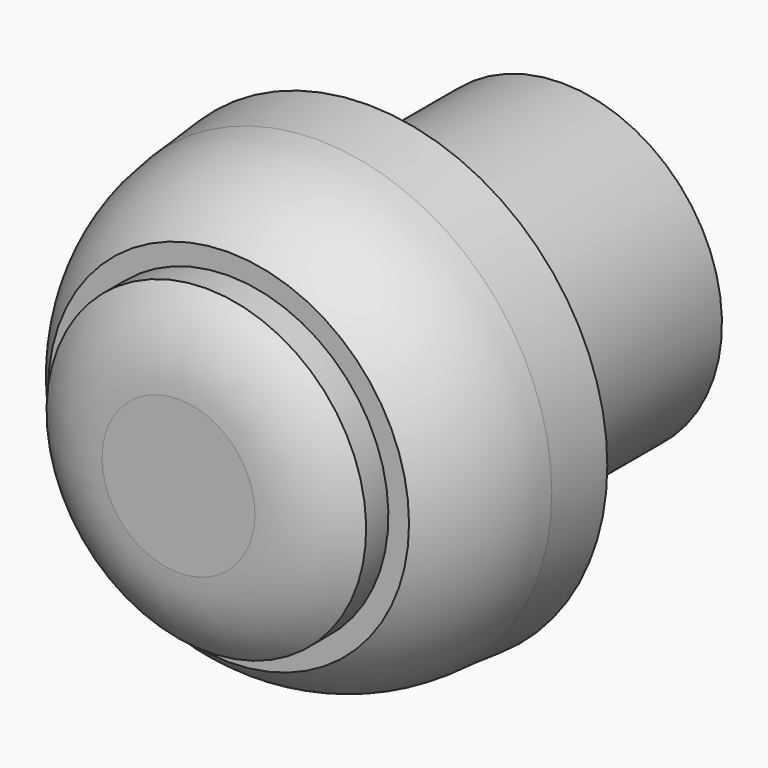
from build123d import *


with BuildPart() as f1:
    # F0 (on Right) → F1 (revolve)
    with BuildSketch(Plane.YZ):
        with BuildLine():
            Line((-8.636, 0), (8.89, 0))
            Line((8.89, 0), (8.89, 5.842))
            Line((8.89, 5.842), (0, 5.842))
            Line((0, 5.842), (0, 8.763))
            Line((0, 8.763), (-2.286, 8.563001))
            ThreePointArc((-2.286, 8.563001), (-4.498697, 7.953019), (-6.35, 6.596265))
            Line((-6.35, 6.596265), (-6.35, 5.842))
            Line((-6.35, 5.842), (-7.366, 5.842))
            ThreePointArc((-7.366, 5.842), (-8.3058, 4.445), (-8.636, 2.794))
            Line((-8.636, 2.794), (-8.636, 0))
        make_face()
    revolve(axis=Axis((0, 9.913695, 0), (0, 1, 0)))


solid = f1.part
